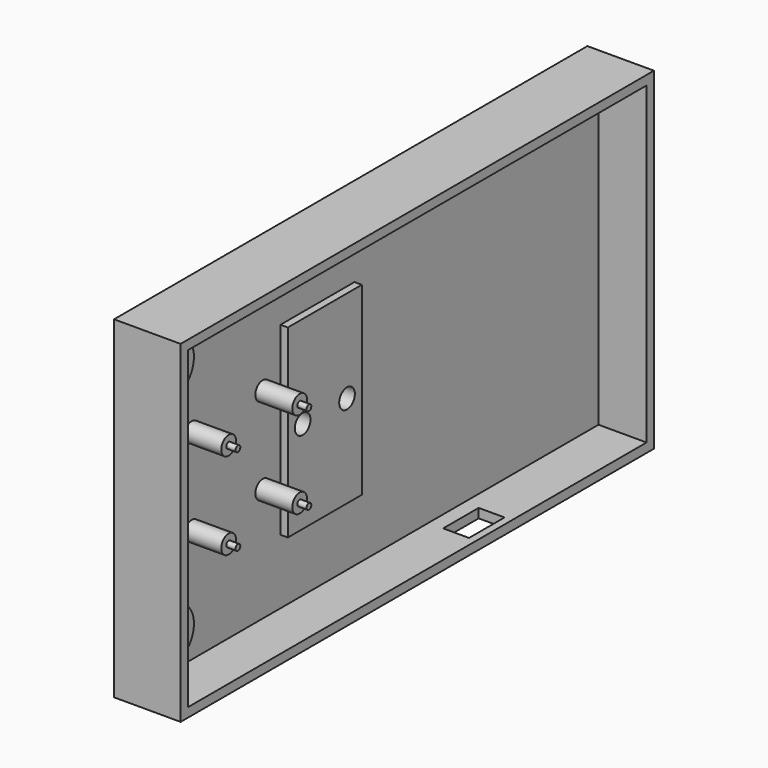
from build123d import *

# Parameters (mm, degrees)
SKETCH_W        = 160
SKETCH_H        = 90
PAD_DEPTH       = 5
SKETCH001_R     = 7
PAD001_DEPTH    = 3
SKETCH002_R     = 2.5
PAD002_DEPTH    = 10
SKETCH003_R     = 0.8
PAD003_DEPTH    = 2.5
SKETCH004_R     = 1.4
POCKET_DEPTH    = 8
SKETCH005_W     = 25
SKETCH005_H     = 50
PAD004_DEPTH    = 2
SKETCH006_R     = 2.65
POCKET001_DEPTH = 7
CHAMFER_SIZE    = 1
CHAMFER001_SIZE = 1
SKETCH007_W     = 160
SKETCH007_H     = 90
SKETCH007_W_2   = 155
SKETCH007_H_2   = 85
PAD005_DEPTH    = 13
SKETCH008_W     = 12
SKETCH008_H     = 7
POCKET002_DEPTH = 5


with BuildPart() as part:
    # Sketch → Pad (new body)
    with BuildSketch(Plane.YZ):
        with Locations((80, 0)):
            Rectangle(SKETCH_W, SKETCH_H)
    extrude(amount=PAD_DEPTH)

    # Sketch001 (on Face6 of Pad) → Pad001 (join)
    with BuildSketch(Plane.YZ.offset(5)):
        with Locations((10, 31.75)):
            Circle(SKETCH001_R)
        with Locations((10, -31.75)):
            Circle(SKETCH001_R)
    extrude(amount=PAD001_DEPTH)

    # Sketch002 (on Face5 of Pad001) → Pad002 (join)
    with BuildSketch(Plane.YZ.offset(5)):
        with Locations((20, 11.75)):
            Circle(SKETCH002_R)
        with Locations((44, 11.75)):
            Circle(SKETCH002_R)
        with Locations((20, -11.75)):
            Circle(SKETCH002_R)
        with Locations((44, -11.75)):
            Circle(SKETCH002_R)
    extrude(amount=PAD002_DEPTH)

    # Sketch003 (on Face13 of Pad002) → Pad003 (join)
    with BuildSketch(Plane.YZ.offset(15)):
        with Locations((44, 11.75)):
            Circle(SKETCH003_R)
        with Locations((20, 11.75)):
            Circle(SKETCH003_R)
        with Locations((20, -11.75)):
            Circle(SKETCH003_R)
        with Locations((44, -11.75)):
            Circle(SKETCH003_R)
    extrude(amount=PAD003_DEPTH)

    # Sketch004 (on Face16 of Pad003) → Pocket (cut)
    with BuildSketch(Plane.YZ.offset(8)):
        with Locations((10, 31.75)):
            Circle(SKETCH004_R)
        with Locations((10, -31.75)):
            Circle(SKETCH004_R)
    extrude(amount=-POCKET_DEPTH, mode=Mode.SUBTRACT)

    # Sketch005 (on Face5 of Pocket) → Pad004 (join)
    with BuildSketch(Plane.YZ.offset(5)):
        with Locations((62.5, 0)):
            Rectangle(SKETCH005_W, SKETCH005_H)
    extrude(amount=PAD004_DEPTH)

    # Sketch006 (on Face21 of Pad004) → Pocket001 (cut)
    with BuildSketch(Plane.YZ.offset(7)):
        with Locations((55, 0)):
            Circle(SKETCH006_R)
        with Locations((70, 0)):
            Circle(SKETCH006_R)
    extrude(amount=-POCKET001_DEPTH, mode=Mode.SUBTRACT)

    # Chamfer
    chamfer_edges = [part.edges().sort_by_distance(p)[0] for p in [
        (0, 52.35, 0),
    ]]
    chamfer(chamfer_edges, length=CHAMFER_SIZE)

    # Chamfer001
    chamfer001_edges = [part.edges().sort_by_distance(p)[0] for p in [
        (0, 67.35, 0),
    ]]
    chamfer(chamfer001_edges, length=CHAMFER001_SIZE)

    # Sketch007 (on Face12 of Chamfer001) → Pad005 (join)
    with BuildSketch(Plane.YZ.offset(5)):
        with Locations((80, 0)):
            Rectangle(SKETCH007_W, SKETCH007_H)
        with Locations((80, 0)):
            Rectangle(SKETCH007_W_2, SKETCH007_H_2, mode=Mode.SUBTRACT)
    extrude(amount=PAD005_DEPTH)

    # Sketch008 (on Face42 of Pad005) → Pocket002 (cut)
    with BuildSketch(Plane.YX.offset(45)):
        with Locations((106, 12.5)):
            Rectangle(SKETCH008_W, SKETCH008_H)
    extrude(amount=-POCKET002_DEPTH, mode=Mode.SUBTRACT)


solid = part.part
